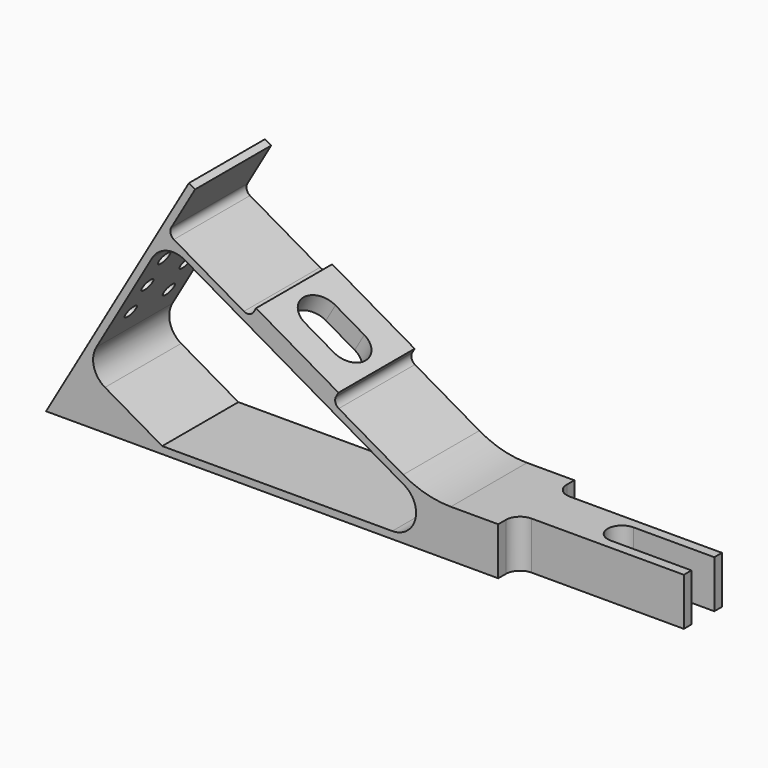
from build123d import *

# Parameters (mm, degrees)
F1_DEPTH  = 20
F3_DEPTH  = 25
F6_DEPTH  = 4
F8_R      = 1.395
F9_DEPTH  = 1.5
F8_R_2    = 4.25
F10_DEPTH = 112.584302492
F8_R_3    = 5.5
F11_DEPTH = 2


with BuildPart() as f1:
    # F0 (on Front) → F1 (new body)
    with BuildSketch(Plane.XZ):
        with BuildLine():
            Line((-35, 51.9615242271), (-65, 0))
            Line((-65, 0), (65, 0))
            Line((65, 0), (65, 10))
            Line((65, 10), (20.0384757729, 10))
            ThreePointArc((20.0384757729, 10), (14.8620948709, 10.6814834742), (10.0384757729, 12.6794919243))
            Line((10.0384757729, 12.6794919243), (-3.5109076373, 20.5022320835))
            ThreePointArc((-3.5109076373, 20.5022320835), (-4.2097963767, 21.4130416216), (-4.0599457429, 22.5512701892))
            Line((-4.0599457429, 22.5512701892), (-3.5599457429, 23.417295593))
            Line((-3.5599457429, 23.417295593), (-20.8804538186, 33.417295593))
            Line((-20.8804538186, 33.417295593), (-21.3804538186, 32.5512701892))
            ThreePointArc((-21.3804538186, 32.5512701892), (-22.2912633567, 31.8523814498), (-23.4294919243, 32.0022320835))
            Line((-23.4294919243, 32.0022320835), (-38.1519237886, 40.5022320835))
            ThreePointArc((-38.1519237886, 40.5022320835), (-38.8508125281, 41.4130416216), (-38.7009618943, 42.5512701892))
            Line((-38.7009618943, 42.5512701892), (-33.7009618943, 51.2115242271))
            Line((-33.7009618943, 51.2115242271), (-35, 51.9615242271))
        make_face()
        with BuildLine():
            ThreePointArc((-52.6208348754, 8.4413429511), (-54.9504640068, 11.4773747445), (-54.4509618943, 15.27146997))
            Line((-54.4509618943, 15.27146997), (-42.7009618943, 35.6230669589))
            ThreePointArc((-42.7009618943, 35.6230669589), (-39.6649301009, 37.9526960904), (-35.8708348754, 37.4531939779))
            Line((-35.8708348754, 37.4531939779), (10.2416697508, 10.8301270189))
            ThreePointArc((10.2416697508, 10.8301270189), (12.5712988822, 5.2059047745), (7.7416697508, 1.5))
            Line((7.7416697508, 1.5), (-40.5980762114, 1.5))
            Line((-40.5980762114, 1.5), (-52.6208348754, 8.4413429511))
        make_face(mode=Mode.SUBTRACT)
    extrude(amount=F1_DEPTH)

    # F2 (on face) → F3 (cut)
    with BuildSketch(Plane.XY.offset(10)):
        with BuildLine():
            Line((65, -17.963156903), (65, -15))
            Line((65, -15), (33, -15))
            ThreePointArc((33, -15), (30.8786796564, -15.8786796564), (30, -18))
            Line((30, -18), (30, -20))
            Line((30, -20), (65, -20))
            Line((65, -20), (65, -17.963156903))
        make_face()
        with BuildLine():
            Line((65, -7), (48, -7))
            ThreePointArc((48, -7), (45, -10), (48, -13))
            Line((48, -13), (65, -13))
            Line((65, -13), (65, -7))
        make_face()
        with BuildLine():
            Line((33, -5), (65, -5))
            Line((65, -5), (65, -2.036843097))
            Line((65, -2.036843097), (65, 0))
            Line((65, 0), (30, 0))
            Line((30, 0), (30, -2))
            ThreePointArc((30, -2), (30.8786796564, -4.1213203436), (33, -5))
        make_face()
    extrude(amount=-F3_DEPTH, mode=Mode.SUBTRACT)

    # F5 (on offset) → F6 (cut, through all)
    with BuildSketch(Plane(origin=(9.25, 0, 16.02146997), x_dir=(0.8660254038, 0, -0.5), z_dir=(0.5, 0, 0.8660254038))):
        with BuildLine():
            Line((-21.291651246, -6.195820753), (-28.291651246, -6.195820753))
            ThreePointArc((-28.291651246, -6.195820753), (-32.291651246, -10.195820753), (-28.291651246, -14.195820753))
            Line((-28.291651246, -14.195820753), (-21.291651246, -14.195820753))
            ThreePointArc((-21.291651246, -14.195820753), (-17.291651246, -10.195820753), (-21.291651246, -6.195820753))
        make_face()
    extrude(amount=-F6_DEPTH, mode=Mode.SUBTRACT)

    # F8 (on offset) → F9 (cut, through all)
    with BuildSketch(Plane(origin=(-48.75, 0, 28.145825623), x_dir=(0, -1, 0), z_dir=(-0.8660254038, 0, 0.5))):
        with Locations((5, -7.5)):
            Circle(F8_R)
        with Locations((5, -0.5)):
            Circle(F8_R)
        with Locations((5, 6.5)):
            Circle(F8_R)
        with Locations((15, -7.5)):
            Circle(F8_R)
        with Locations((15, -0.5)):
            Circle(F8_R)
        with Locations((15, 6.5)):
            Circle(F8_R)
    extrude(amount=-F9_DEPTH, mode=Mode.SUBTRACT)

    # F8 (on offset) → F10 (cut, through all)
    with BuildSketch(Plane(origin=(-48.75, 0, 28.145825623), x_dir=(0, -1, 0), z_dir=(-0.8660254038, 0, 0.5))):
        with Locations((10, -25)):
            Circle(F8_R_2)
    extrude(amount=-F10_DEPTH, mode=Mode.SUBTRACT)

    # F8 (on offset) → F11 (cut)
    with BuildSketch(Plane(origin=(-48.75, 0, 28.145825623), x_dir=(0, -1, 0), z_dir=(-0.8660254038, 0, 0.5))):
        with Locations((10, -25)):
            Circle(F8_R_3)
        with Locations((10, -25)):
            Circle(F8_R_2, mode=Mode.SUBTRACT)
    extrude(amount=-F11_DEPTH, mode=Mode.SUBTRACT)


solid = f1.part
